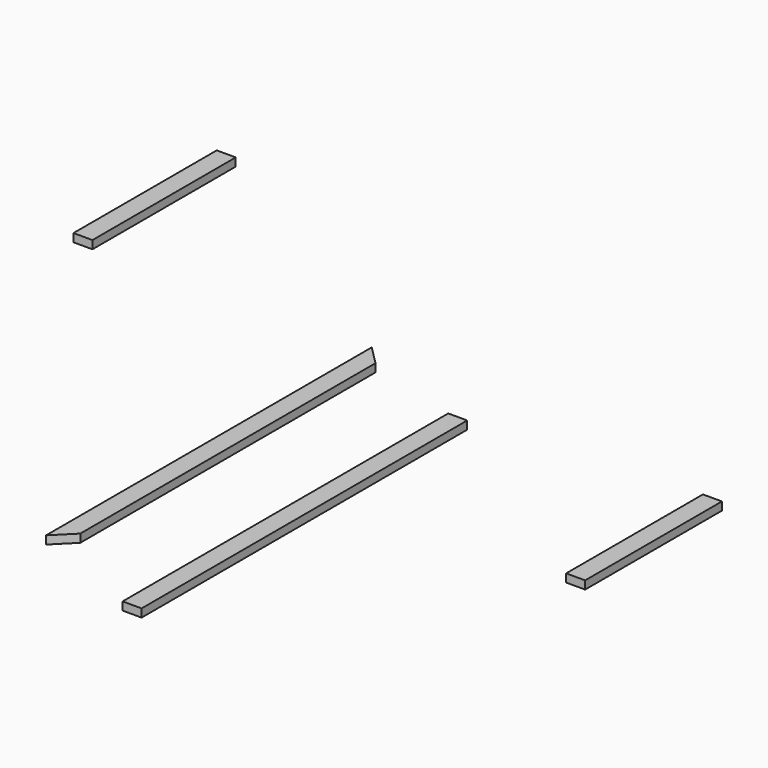
from build123d import *

# Parameters (mm, degrees)
F0_W     = 88.9
F0_H     = 38.1
F1_DEPTH = 1905
F3_DEPTH = 38.1
F4_W     = 88.9
F4_H     = 38.1
F5_DEPTH = 1905
F6_W     = 88.9
F6_H     = 38.1
F7_DEPTH = 800.1
F8_W     = 88.9
F8_H     = 38.1
F9_DEPTH = 838.2


with BuildPart() as f1:
    # F0 (on Front) → F1 (new body)
    with BuildSketch(Plane.XZ):
        with Locations((-21.014355, 66.343872)):
            Rectangle(F0_W, F0_H)
    extrude(amount=F1_DEPTH)

    # F2 (on face) → F3 (cut, through all)
    with BuildSketch(Plane.XY.offset(85.393872)):
        Polygon((23.435645, -1816.1), (-65.464355, -1905), (23.435645, -1905), align=None)
        Polygon((-65.464355, 0), (23.435645, -88.9), (23.435645, 0), align=None)
    extrude(amount=-F3_DEPTH, mode=Mode.SUBTRACT)


with BuildPart() as f5:
    # F4 (on Front) → F5 (new body)
    with BuildSketch(Plane.XZ):
        with Locations((337.08784, -89.343989)):
            Rectangle(F4_W, F4_H)
    extrude(amount=F5_DEPTH)


with BuildPart() as f7:
    # F6 (on Front) → F7 (new body)
    with BuildSketch(Plane.XZ):
        with Locations((1528.948247, -35.375655)):
            Rectangle(F6_W, F6_H)
    extrude(amount=F7_DEPTH)


with BuildPart() as f9:
    # F8 (on Front) → F9 (new body)
    with BuildSketch(Plane.XZ):
        with Locations((-746.302992, 642.129938)):
            Rectangle(F8_W, F8_H)
    extrude(amount=F9_DEPTH)


solid = Compound([f1.part, f5.part, f7.part, f9.part])
